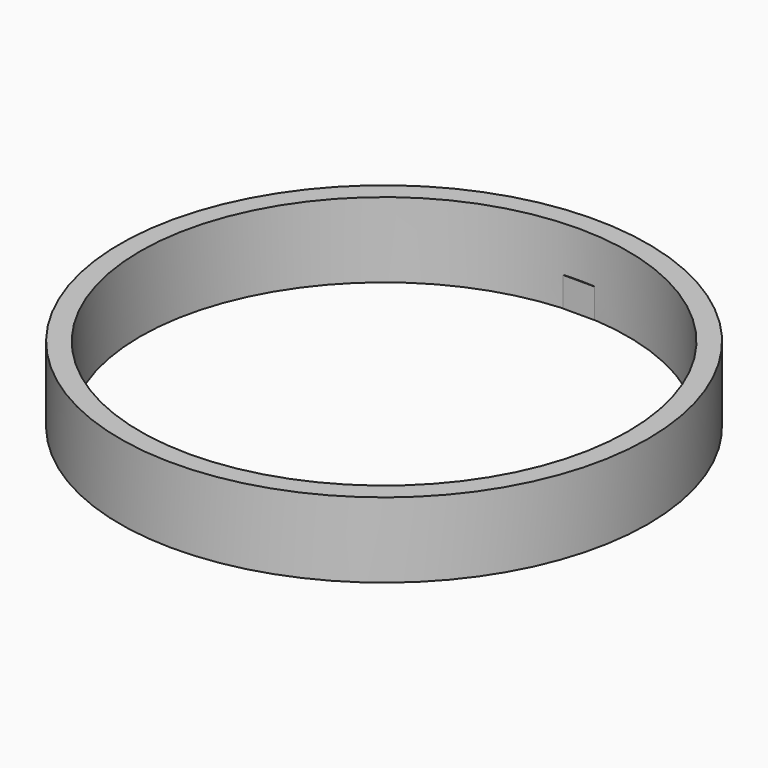
from build123d import *

# Parameters (mm, degrees)
F0_R     = 89.31838
F1_DEPTH = 25.4
F3_D     = 165.1
F3_DEPTH = 101.6
F4_W     = 10.614076
F4_H     = 8.786991
F5_DEPTH = 10


with BuildPart() as f1:
    # F0 (on Top) → F1 (new body)
    with BuildSketch(Plane.XY):
        Circle(F0_R)
    extrude(amount=F1_DEPTH)

    # F3
    with Locations(Plane.XY.offset(25.4)):
        with Locations((0, 0)):
            Hole(F3_D / 2, depth=F3_DEPTH)

    # F4 (on Top) → F5 (join)
    with BuildSketch(Plane.XY):
        with Locations((0, 86.68711)):
            Rectangle(F4_W, F4_H)
    extrude(amount=F5_DEPTH)


solid = f1.part
